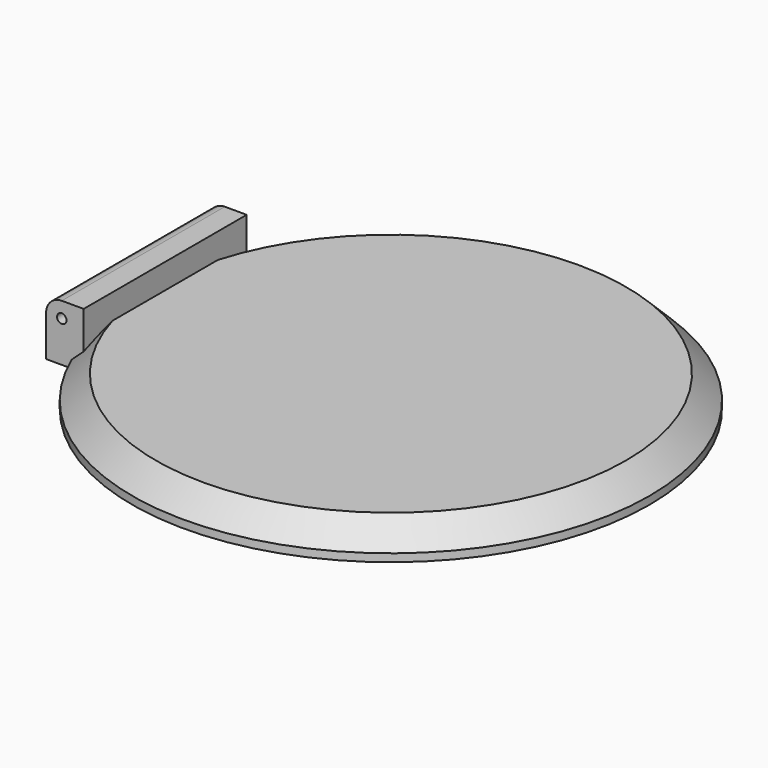
from build123d import *

# Parameters (mm, degrees)
F0_R     = 20.955
F1_DEPTH = 2.54
F2_SIZE  = 1.905
F3_W     = 3.048
F3_H     = 16.51
F4_DEPTH = 4.572
F5_R     = 1.27
F6_R     = 0.381
F7_DEPTH = 25.4


with BuildPart() as f1:
    # F0 (on Top) → F1 (new body)
    with BuildSketch(Plane.XY):
        Circle(F0_R)
    extrude(amount=F1_DEPTH)

    # F2
    f2_edges = [f1.edges().sort_by_distance(p)[0] for p in [
        (-20.955, 0, 2.54),
    ]]
    chamfer(f2_edges, length=F2_SIZE)

    # F3 (on Top) → F4 (join)
    with BuildSketch(Plane.XY):
        with Locations((-19.812, 0)):
            Rectangle(F3_W, F3_H)
    extrude(amount=F4_DEPTH)

    # F5
    f5_edges = [f1.edges().sort_by_distance(p)[0] for p in [
        (-21.336, 0, 4.572),
    ]]
    fillet(f5_edges, radius=F5_R)

    # F6 (on face) → F7 (cut)
    with BuildSketch(Plane.XZ.offset(8.255)):
        with Locations((-20.066, 3.302)):
            Circle(F6_R)
    extrude(amount=-F7_DEPTH, mode=Mode.SUBTRACT)


solid = f1.part
